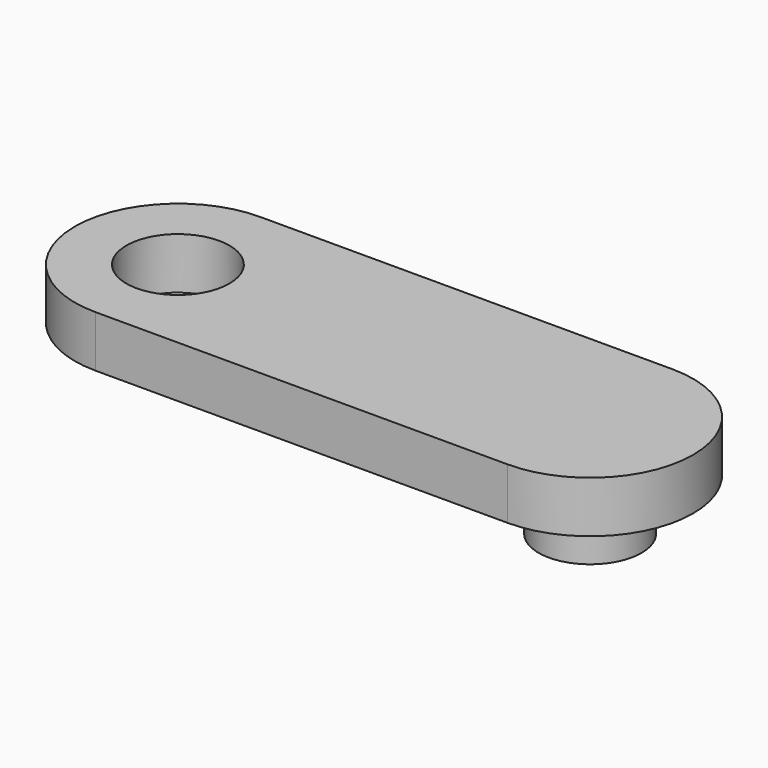
from build123d import *

# Parameters (mm, degrees)
F0_R     = 10
F1_DEPTH = 10
F2_R     = 10
F3_DEPTH = 10


with BuildPart() as f1:
    # F0 (on Top) → F1 (new body)
    with BuildSketch(Plane.XY):
        with BuildLine():
            Line((37.193202, 20), (-42.806798, 20))
            ThreePointArc((-42.806798, 20), (-62.806798, 0), (-42.806798, -20))
            Line((-42.806798, -20), (37.193202, -20))
            ThreePointArc((37.193202, -20), (57.193202, 0), (37.193202, 20))
        make_face()
        with Locations((-42.806798, 0)):
            Circle(F0_R, mode=Mode.SUBTRACT)
    extrude(amount=F1_DEPTH)

    # F2 (on face) → F3 (join)
    with BuildSketch(Plane(origin=(0, 0, 0), x_dir=(1, 0, 0), z_dir=(0, 0, -1))):
        with Locations((37.193202, 0)):
            Circle(F2_R)
    extrude(amount=F3_DEPTH)


solid = f1.part
